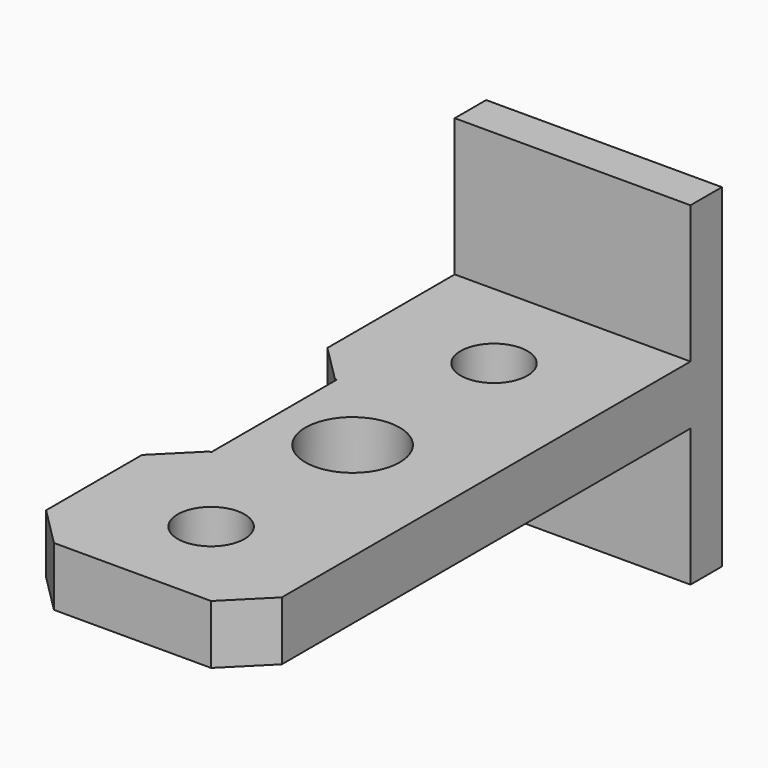
from build123d import *

# Parameters (mm, degrees)
BOX028_W          = 2
BOX028_H          = 8
BOX028_DEPTH      = 3
BOX027_W          = 12
BOX027_H          = 2
BOX027_DEPTH      = 10
BOX025_W          = 12
BOX025_H          = 2
BOX025_DEPTH      = 10
CYLINDER007_R     = 1.7
CYLINDER007_DEPTH = 10
CYLINDER008_R     = 1.7
CYLINDER008_DEPTH = 10
CYLINDER006_R     = 2.4
CYLINDER006_DEPTH = 10
BOX026_W          = 12
BOX026_H          = 28
BOX026_DEPTH      = 3
CHAMFER022_SIZE   = 1.9
CHAMFER023_SIZE   = 2


with BuildPart() as cube028:
    # Box028 → Box028 (new body)
    with BuildSketch(Plane(origin=(-12, -18, 24.3), x_dir=(1, 0, 0), z_dir=(0, 0, 1))):
        with Locations((1, 4)):
            Rectangle(BOX028_W, BOX028_H)
    extrude(amount=BOX028_DEPTH)


with BuildPart() as cube027:
    # Box027 → Box027 (new body)
    with BuildSketch(Plane(origin=(-12, 0, 17.3), x_dir=(1, 0, 0), z_dir=(0, 0, 1))):
        with Locations((6, 1)):
            Rectangle(BOX027_W, BOX027_H)
    extrude(amount=BOX027_DEPTH)


with BuildPart() as cube025:
    # Box025 → Box025 (new body)
    with BuildSketch(Plane(origin=(-12, 0, 24.3), x_dir=(1, 0, 0), z_dir=(0, 0, 1))):
        with Locations((6, 1)):
            Rectangle(BOX025_W, BOX025_H)
    extrude(amount=BOX025_DEPTH)


with BuildPart() as cylinder007:
    # Cylinder007 → Cylinder007 (new body)
    with BuildSketch(Plane(origin=(-6, -5, 20), x_dir=(1, 0, 0), z_dir=(0, 0, 1))):
        Circle(CYLINDER007_R)
    extrude(amount=CYLINDER007_DEPTH)


with BuildPart() as cylinder008:
    # Cylinder008 → Cylinder008 (new body)
    with BuildSketch(Plane(origin=(-6, -23, 20), x_dir=(1, 0, 0), z_dir=(0, 0, 1))):
        Circle(CYLINDER008_R)
    extrude(amount=CYLINDER008_DEPTH)


with BuildPart() as fusion014004:
    # Cylinder006 → Cylinder006 (new body)
    with BuildSketch(Plane(origin=(-6, -14, 20), x_dir=(1, 0, 0), z_dir=(0, 0, 1))):
        Circle(CYLINDER006_R)
    extrude(amount=CYLINDER006_DEPTH)

    # Fusion014004: union Cylinder007, Cylinder008
    add(cylinder007.part)
    add(cylinder008.part)


with BuildPart() as chamfer023:
    # Box026 → Box026 (new body)
    with BuildSketch(Plane(origin=(-12, -28, 24.3), x_dir=(1, 0, 0), z_dir=(0, 0, 1))):
        with Locations((6, 14)):
            Rectangle(BOX026_W, BOX026_H)
    extrude(amount=BOX026_DEPTH)

    # Cut002003004006013002: cut Fusion014004
    add(fusion014004.part, mode=Mode.SUBTRACT)

    # Fusion014005: union Cube027, Cube025
    add(cube027.part)
    add(cube025.part)

    # Cut002003004006013003: cut Cube028
    add(cube028.part, mode=Mode.SUBTRACT)

    # Chamfer022
    chamfer022_edges = [chamfer023.edges().sort_by_distance(p)[0] for p in [
        (-12, -10, 25.8),
        (-12, -18, 25.8),
    ]]
    chamfer(chamfer022_edges, length=CHAMFER022_SIZE)

    # Chamfer023
    chamfer023_edges = [chamfer023.edges().sort_by_distance(p)[0] for p in [
        (-12, -28, 25.8),
        (0, -28, 25.8),
    ]]
    chamfer(chamfer023_edges, length=CHAMFER023_SIZE)


solid = chamfer023.part
